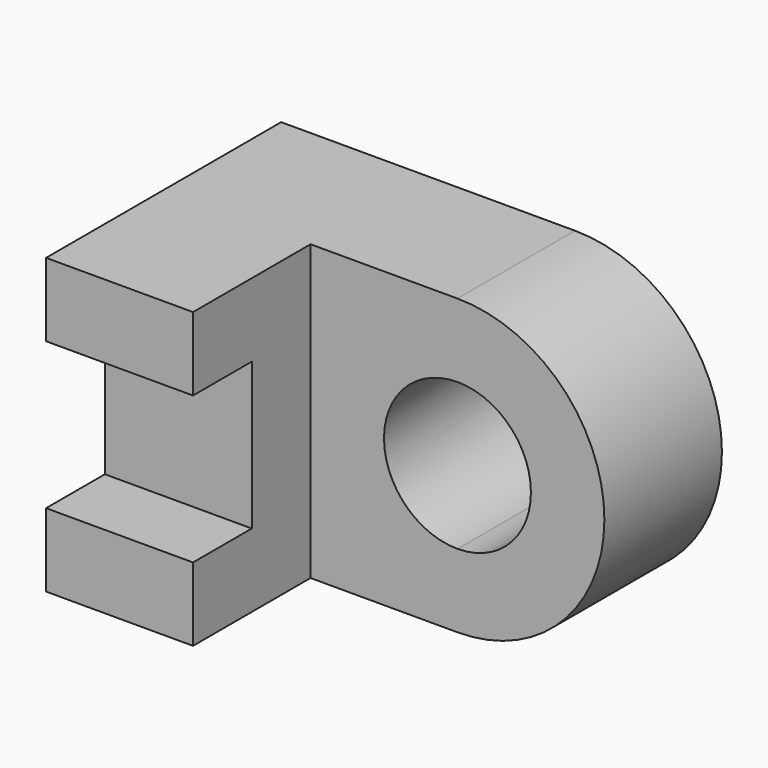
from build123d import *

# Parameters (mm, degrees)
F1_DEPTH = 12.7
F0_W     = 12.7
F0_H     = 6.35
F2_DEPTH = 25.4
F0_H_2   = 12.7
F3_DEPTH = 19.05


with BuildPart() as f1:
    # F0 (on Front) → F1 (new body)
    with BuildSketch(Plane.XZ):
        with BuildLine():
            Line((12.7, 6.35), (12.7, 0))
            Line((12.7, 0), (25.4, 0))
            Line((25.4, 0), (25.4, 6.35))
            ThreePointArc((25.4, 6.35), (19.05, 12.7), (25.4, 19.05))
            Line((25.4, 19.05), (25.4, 25.4))
            Line((25.4, 25.4), (12.7, 25.4))
            Line((12.7, 25.4), (12.7, 19.05))
            Line((12.7, 19.05), (12.7, 6.35))
        make_face()
        with BuildLine():
            Line((25.4, 6.35), (25.4, 0))
            ThreePointArc((25.4, 0), (38.1, 12.7), (25.4, 25.4))
            Line((25.4, 25.4), (25.4, 19.05))
            ThreePointArc((25.4, 19.05), (29.890128, 17.190128), (31.75, 12.7))
            ThreePointArc((31.75, 12.7), (29.890128, 8.209872), (25.4, 6.35))
        make_face()
    extrude(amount=F1_DEPTH)

    # F0 (on Front) → F2 (join)
    with BuildSketch(Plane.XZ):
        with Locations((6.35, 22.225)):
            Rectangle(F0_W, F0_H)
        with Locations((6.35, 3.175)):
            Rectangle(F0_W, F0_H)
    extrude(amount=F2_DEPTH)

    # F0 (on Front) → F3 (join)
    with BuildSketch(Plane.XZ):
        with Locations((6.35, 12.7)):
            Rectangle(F0_W, F0_H_2)
    extrude(amount=F3_DEPTH)


solid = f1.part
